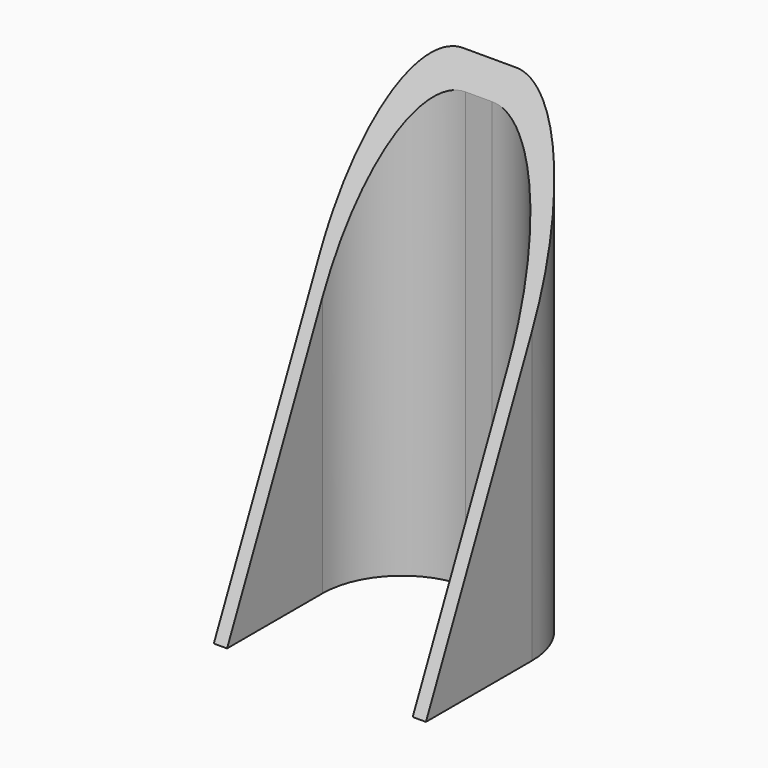
from build123d import *

# Parameters (mm, degrees)
F1_DEPTH = 70
F3_DEPTH = 33
F4_R     = 12


with BuildPart() as f1:
    # F0 (on Top) → F1 (new body)
    with BuildSketch(Plane.XY):
        Polygon((14, -16), (16, -16), (16, 16), (-16, 16), (-16, -16), (-14, -16), (-14, 14), (14, 14), align=None)
    extrude(amount=F1_DEPTH)

    # F2 (on face) → F3 (cut)
    with BuildSketch(Plane(origin=(-16, 0, 0), x_dir=(0, -1, 0), z_dir=(-1, 0, 0))):
        Polygon((16, 70), (-16, 70), (16, 0), align=None)
    extrude(amount=-F3_DEPTH, mode=Mode.SUBTRACT)

    # F4
    f4_edges = [f1.edges().sort_by_distance(p)[0] for p in [
        (16, 16, 35),
        (-16, 16, 35),
        (-14, 14, 32.8125),
        (14, 14, 32.8125),
    ]]
    fillet(f4_edges, radius=F4_R)


solid = f1.part
